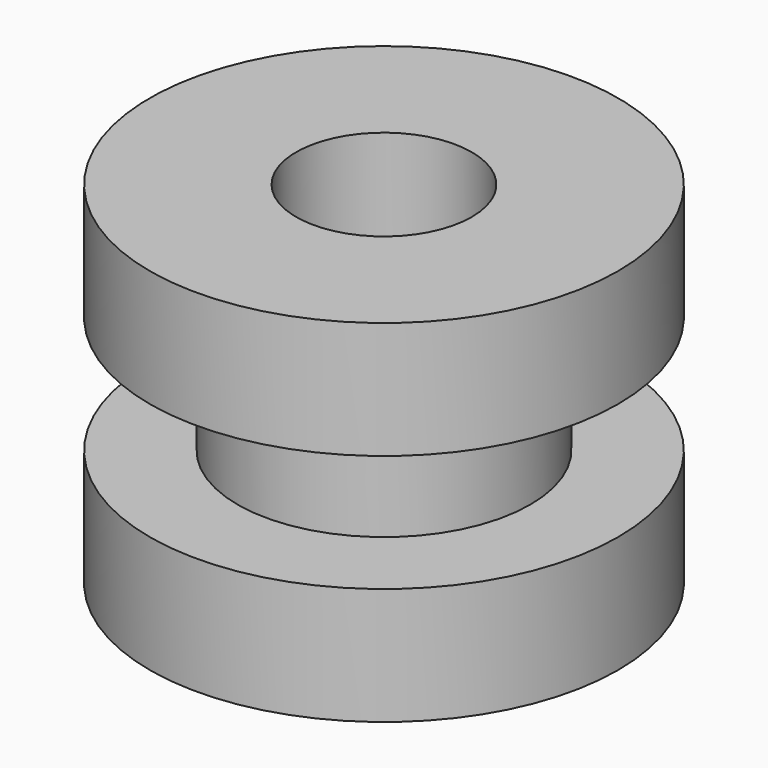
from build123d import *

# Parameters (mm, degrees)
SKETCH_R     = 4
PAD_DEPTH    = 2
SKETCH001_R  = 2.5
PAD001_DEPTH = 2
SKETCH002_R  = 4
PAD002_DEPTH = 2
SKETCH003_R  = 1.5
POCKET_DEPTH = 6.001


with BuildPart() as part:
    # Sketch → Pad (new body)
    with BuildSketch(Plane.XY):
        Circle(SKETCH_R)
    extrude(amount=PAD_DEPTH)

    # Sketch001 → Pad001 (new body)
    with BuildSketch(Plane.XY.offset(2)):
        Circle(SKETCH001_R)
    extrude(amount=PAD001_DEPTH)

    # Sketch002 → Pad002 (new body)
    with BuildSketch(Plane.XY.offset(4)):
        Circle(SKETCH002_R)
    extrude(amount=PAD002_DEPTH)

    # Sketch003 → Pocket (cut, through all)
    with BuildSketch(Plane.XY.offset(6)):
        Circle(SKETCH003_R)
    extrude(amount=-POCKET_DEPTH, mode=Mode.SUBTRACT)


solid = part.part
